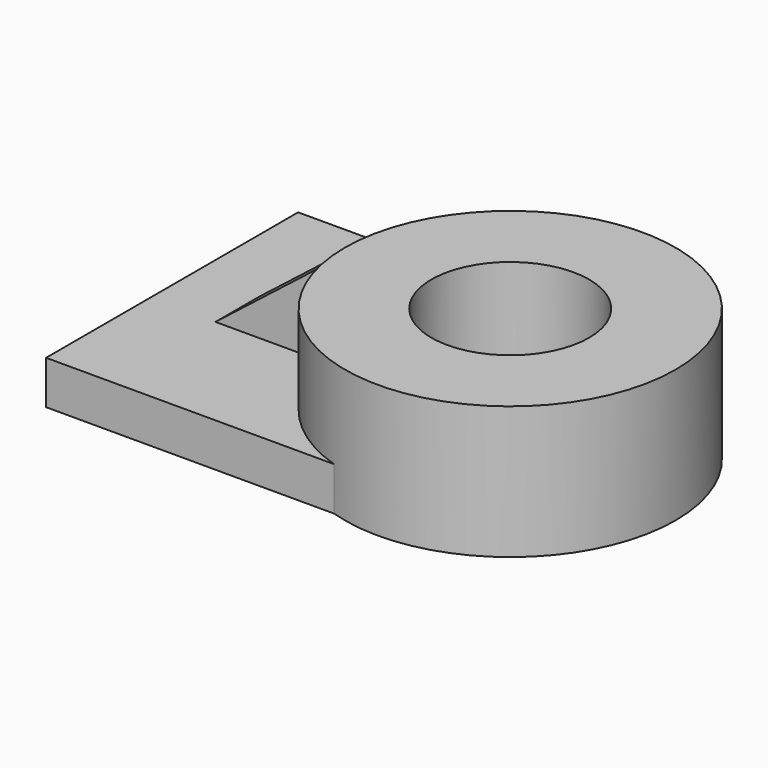
from build123d import *

# Parameters (mm, degrees)
F1_DEPTH = 20.066
F2_R     = 76.246364
F2_R_2   = 36.389637
F3_DEPTH = 61.214
F5_DEPTH = 12.7


with BuildPart() as f1:
    # F0 (on Top) → F1 (new body)
    with BuildSketch(Plane.XY):
        with BuildLine():
            Line((-70.862994, -72.654791), (64.208811, -72.654791))
            ThreePointArc((64.208811, -72.654791), (22.925008, 0), (64.208811, 72.654791))
            Line((64.208811, 72.654791), (-70.862994, 72.654791))
            Line((-70.862994, 72.654791), (-70.862994, -72.654791))
        make_face()
    extrude(amount=F1_DEPTH)

    # F2 (on Top) → F3 (join)
    with BuildSketch(Plane.XY):
        with Locations((85.103318, 0)):
            Circle(F2_R)
        with Locations((85.103318, 0)):
            Circle(F2_R_2, mode=Mode.SUBTRACT)
    extrude(amount=F3_DEPTH)

    # F4 (on Front) → F5 (join, symmetric)
    with BuildSketch(Plane.XZ):
        Polygon((10.999451, 18.561568), (10.082829, 59.809498), (-42.622861, 18.561568), align=None)
    extrude(amount=F5_DEPTH, both=True)


solid = f1.part
